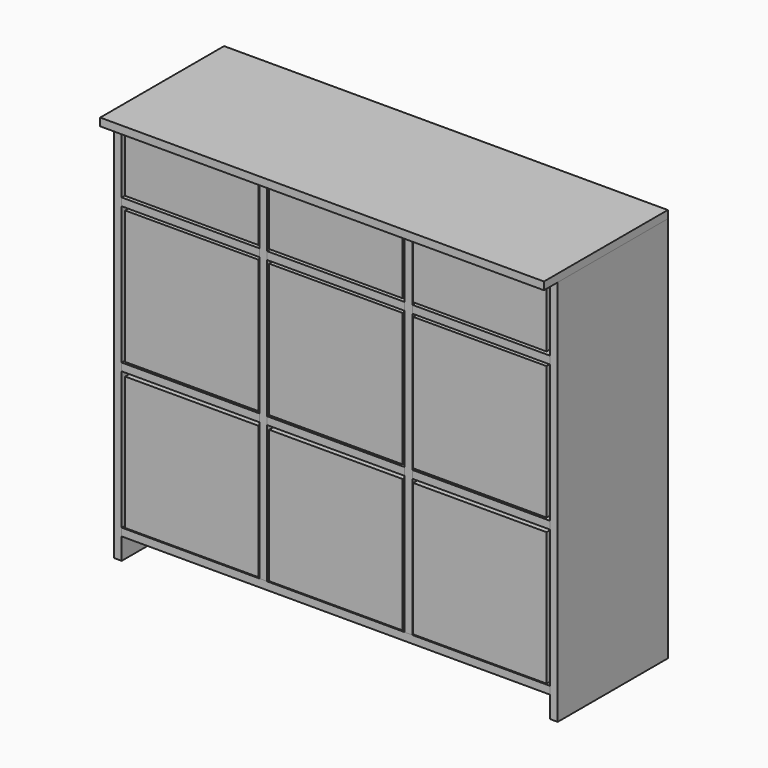
from build123d import *

# Parameters (mm, degrees)
F0_W      = 18
F0_H      = 320
F1_DEPTH  = 900
F3_W      = 18
F3_H      = 320
F4_DEPTH  = 832
F5_W      = 320
F5_H      = 18
F6_DEPTH  = 498
F10_W     = 320
F10_H     = 18
F11_DEPTH = 320
F12_W     = 320
F12_H     = 18
F13_DEPTH = 320
F14_W     = 320
F14_H     = 18
F15_DEPTH = 320
F5_W_2    = 360
F16_DEPTH = 516
F18_W     = 310
F18_H     = 310
F19_DEPTH = 310
F21_W     = 310
F21_H     = 310
F22_DEPTH = 310
F24_W     = 310
F24_H     = 310
F25_DEPTH = 150


with BuildPart() as f1:
    # F0 (on Top) → F1 (new body)
    with BuildSketch(Plane.XY):
        with Locations((-507, -40)):
            Rectangle(F0_W, F0_H)
        with Locations((507, -40)):
            Rectangle(F0_W, F0_H)
    extrude(amount=F1_DEPTH)


with BuildPart() as f4:
    # F3 (on offset) → F4 (new body)
    with BuildSketch(Plane.XY.offset(68)):
        with Locations((-169, -40)):
            Rectangle(F3_W, F3_H)
        with Locations((169, -40)):
            Rectangle(F3_W, F3_H)
    extrude(amount=F4_DEPTH)


with BuildPart() as f6:
    # F5 (on Right) → F6 (new body, symmetric)
    with BuildSketch(Plane.YZ):
        with Locations((-40, 59)):
            Rectangle(F5_W, F5_H)
    extrude(amount=F6_DEPTH, both=True)


with BuildPart() as f11:
    # F10 (on offset) → F11 (new body)
    with BuildSketch(Plane.YZ.offset(-178)):
        with Locations((-40, 397)):
            Rectangle(F10_W, F10_H)
        with Locations((-40, 735)):
            Rectangle(F10_W, F10_H)
    extrude(amount=-F11_DEPTH)


with BuildPart() as f13:
    # F12 (on offset) → F13 (new body)
    with BuildSketch(Plane.YZ.offset(160)):
        with Locations((-40, 397)):
            Rectangle(F12_W, F12_H)
        with Locations((-40, 735)):
            Rectangle(F12_W, F12_H)
    extrude(amount=-F13_DEPTH)


with BuildPart() as f15:
    # F14 (on offset) → F15 (new body)
    with BuildSketch(Plane.YZ.offset(498)):
        with Locations((-40, 397)):
            Rectangle(F14_W, F14_H)
        with Locations((-40, 735)):
            Rectangle(F14_W, F14_H)
    extrude(amount=-F15_DEPTH)


with BuildPart() as f16:
    # F5 (on Right) → F16 (new body, symmetric)
    with BuildSketch(Plane.YZ):
        with Locations((-60, 909)):
            Rectangle(F5_W_2, F5_H)
    extrude(amount=F16_DEPTH, both=True)


with BuildPart() as f19:
    # F18 (on offset) → F19 (new body)
    with BuildSketch(Plane.XY.offset(70)):
        with Locations((-335, -45)):
            Rectangle(F18_W, F18_H)
        with Locations((0, -45)):
            Rectangle(F18_W, F18_H)
        with Locations((335, -45)):
            Rectangle(F18_W, F18_H)
    extrude(amount=F19_DEPTH)


with BuildPart() as f22:
    # F21 (on offset) → F22 (new body)
    with BuildSketch(Plane.XY.offset(410)):
        with Locations((-335, -45)):
            Rectangle(F21_W, F21_H)
        with Locations((0, -45)):
            Rectangle(F21_W, F21_H)
        with Locations((335, -45)):
            Rectangle(F21_W, F21_H)
    extrude(amount=F22_DEPTH)


with BuildPart() as f25:
    # F24 (on offset) → F25 (new body)
    with BuildSketch(Plane.XY.offset(750)):
        with Locations((-335, -45)):
            Rectangle(F24_W, F24_H)
        with Locations((0, -45)):
            Rectangle(F24_W, F24_H)
        with Locations((335, -45)):
            Rectangle(F24_W, F24_H)
    extrude(amount=F25_DEPTH)


solid = Compound([f1.part, f4.part, f6.part, f11.part, f13.part, f15.part, f16.part, f19.part, f22.part, f25.part])
